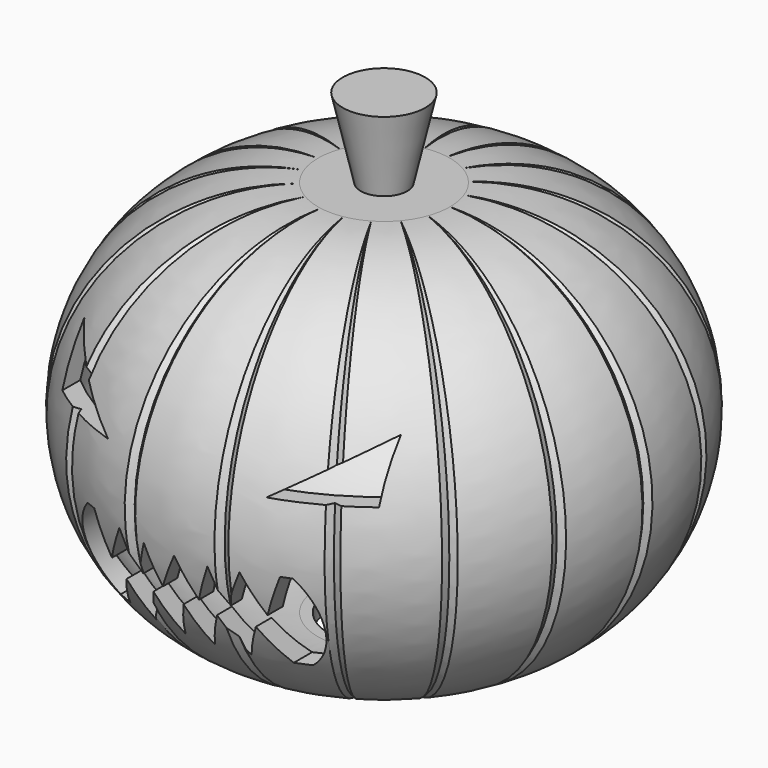
from build123d import *

# Parameters (mm, degrees)
F0_W      = 12.7
F0_H      = 3.175
F0_H_2    = 3.3455209829
F5_COUNT  = 18
F6_R      = 10.7094182755
F7_DEPTH  = 25.4
F10_DEPTH = 50.8
F13_R     = 7.9407965702
F11_R     = 4.4751132348


with BuildPart() as f1:
    # F0 (on Front) → F1 (revolve)
    with BuildSketch(Plane.XZ):
        with Locations((-6.35, 74.6125)):
            Rectangle(F0_W, F0_H)
        with BuildLine():
            ThreePointArc((-12.7, 76.2), (-49.9077047172, 38.1), (-12.7, 0))
            Line((-12.7, 0), (-12.7, 3.3455209829))
            ThreePointArc((-12.7, 3.3455209829), (-47.5397395086, 38.1852604914), (-12.7, 73.025))
            Line((-12.7, 73.025), (-12.7, 76.2))
        make_face()
        with Locations((-6.35, 1.6727604914)):
            Rectangle(F0_W, F0_H_2)
        with BuildLine():
            ThreePointArc((-12.7, 76.2), (-50.8, 38.1), (-12.7, 0))
            ThreePointArc((-12.7, 0), (-49.9077047172, 38.1), (-12.7, 76.2))
        make_face()
    revolve(axis=Axis((0, 0, 38.1), (0, 0, 1)))

    # F4: sweep along a path in F0
    with BuildLine(Plane.XZ) as f4_path:
        ThreePointArc((-12.7, 76.2), (-49.9077047172, 38.1), (-12.7, 0))
    # F3 (on offset) → F4 (sweep, cut)
    with BuildSketch(Plane.YZ.offset(-12.7)):
        Polygon((-4.5693363063, 79.7981992364), (0, 76.2036964297), (5.3186696023, 79.7981992364), align=None)
    f4 = sweep(path=f4_path.line, mode=Mode.SUBTRACT)

    # F5: F4 ×18 about axis
    f5_axis = Axis((0, 0, 38.1), (0, 0, 1))
    for i in range(1, F5_COUNT):
        add(f4.rotate(f5_axis, i * 360 / F5_COUNT), mode=Mode.SUBTRACT)

    # F6 (on face) → F7 (cut)
    with BuildSketch(Plane(origin=(0, 0, 0), x_dir=(1, 0, 0), z_dir=(0, 0, -1))):
        Circle(F6_R)
    extrude(amount=-F7_DEPTH, mode=Mode.SUBTRACT)

    # F9 (on offset) → F10 (cut)
    with BuildSketch(Plane.XZ.offset(76.2)):
        with BuildLine():
            Line((3.4719596151, 26.4861080796), (0, 33.5443287771))
            Line((0, 33.5443287771), (-3.4719596151, 26.4861080796))
            Line((-3.4719596151, 26.4861080796), (-6.1260228977, 33.5443287771))
            Line((-6.1260228977, 33.5443287771), (-8.400933817, 26.4861080796))
            Line((-8.400933817, 26.4861080796), (-11.5605331957, 33.9427627623))
            Line((-11.5605331957, 33.9427627623), (-14.9728991091, 26.7388764769))
            Line((-14.9728991091, 26.7388764769), (-17.8797300905, 34.4482958317))
            Line((-17.8797300905, 34.4482958317), (-19.7754912078, 34.4482958317))
            ThreePointArc((-19.7754912078, 34.4482958317), (-22.9346455687, 25.3306284475), (-18.5116510838, 16.7545434088))
            Line((-18.5116510838, 16.7545434088), (-15.7312043011, 16.7545434088))
            Line((-15.7312043011, 16.7545434088), (-12.4452207237, 23.8320436329))
            Line((-12.4452207237, 23.8320436329), (-9.1592380777, 16.7545434088))
            Line((-9.1592380777, 16.7545434088), (-6.1260228977, 24.3375804275))
            Line((-6.1260228977, 24.3375804275), (-2.840039786, 16.7545434088))
            Line((-2.840039786, 16.7545434088), (0, 24.3375804275))
            Line((0, 24.3375804275), (2.840039786, 16.7545434088))
            Line((2.840039786, 16.7545434088), (6.1260228977, 24.3375804275))
            Line((6.1260228977, 24.3375804275), (9.1592380777, 16.7545434088))
            Line((9.1592380777, 16.7545434088), (12.4452207237, 23.8320436329))
            Line((12.4452207237, 23.8320436329), (15.7312043011, 16.7545434088))
            Line((15.7312043011, 16.7545434088), (18.5116510838, 16.7545434088))
            ThreePointArc((18.5116510838, 16.7545434088), (22.9346455687, 25.3306284475), (19.7754912078, 34.4482958317))
            Line((19.7754912078, 34.4482958317), (17.8797300905, 34.4482958317))
            Line((17.8797300905, 34.4482958317), (14.9728991091, 26.7388764769))
            Line((14.9728991091, 26.7388764769), (11.5605331957, 33.9427627623))
            Line((11.5605331957, 33.9427627623), (8.400933817, 26.4861080796))
            Line((8.400933817, 26.4861080796), (6.1260228977, 33.5443287771))
            Line((6.1260228977, 33.5443287771), (3.4719596151, 26.4861080796))
        make_face()
        Polygon((-30.48, 47.0374106133), (-15.24, 47.0374106133), (-30.48, 57.1974106133), align=None)
        Polygon((30.48, 57.1974106133), (15.24, 47.0374106133), (30.48, 47.0374106133), align=None)
    extrude(amount=-F10_DEPTH, mode=Mode.SUBTRACT)

    # F13 (on offset) → F14 section 0
    with BuildSketch(Plane.XY.offset(91.44)):
        Circle(F13_R)
    # F11 (on face) → F14 section 1
    with BuildSketch(Plane.XY.offset(76.2)):
        Circle(F11_R)
    loft()


solid = f1.part
